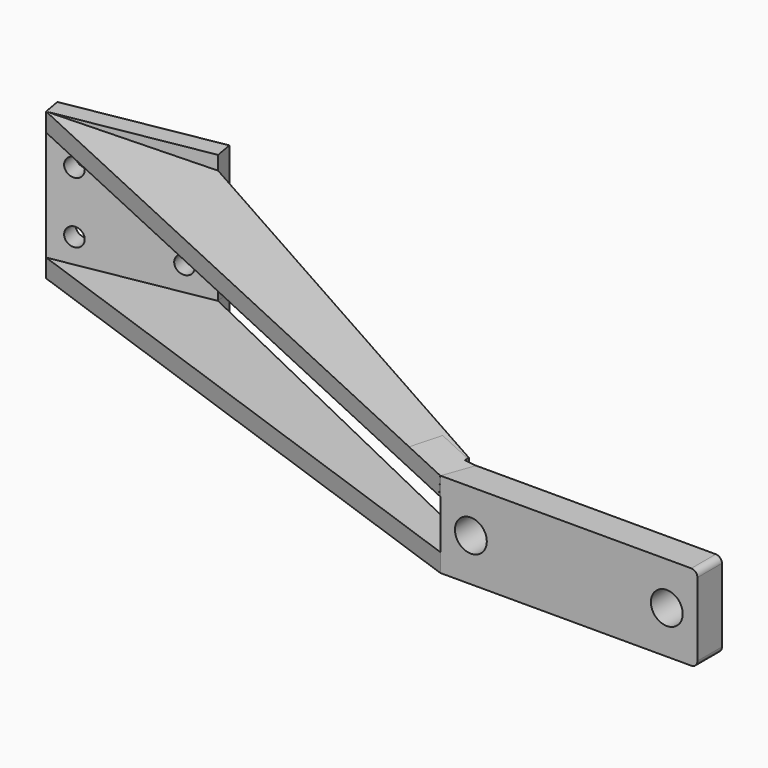
from build123d import *

# Parameters (mm, degrees)
PAD_DEPTH       = 3
SKETCH001_R     = 2.6
POCKET_DEPTH    = 39.421276
SKETCH002_W     = 42
SKETCH002_H     = 14
PAD001_DEPTH    = 5
SKETCH003_W     = 25
SKETCH003_H     = 24
PAD002_DEPTH    = 3
PAD003_DEPTH    = 5.25
PAD004_DEPTH    = 3
SKETCH006_R     = 2.6
POCKET001_DEPTH = 39.421276
SKETCH007_W     = 10.046043
SKETCH007_H     = 6.845245
POCKET002_DEPTH = 24.040304
POCKET003_DEPTH = 24.001
POCKET004_DEPTH = 57.585803
SKETCH009_R     = 1.5
POCKET005_DEPTH = 7.276792
FILLET_R        = 1


with BuildPart() as part:
    # Sketch → Pad (new body)
    with BuildSketch(Plane.XY):
        Polygon((-111.071915, -107.875351), (-111.592859, -104.920928), (-86.972666, -100.579724), (-86.451721, -103.534147), (-21, -135), (21, -135), (21, -140), (-21, -140), align=None)
    extrude(amount=PAD_DEPTH)

    # Sketch001 (on Face7 of Pad) → Pocket (cut, through all)
    with BuildSketch(Plane.XZ.offset(140)):
        with Locations((-11.143028, 7)):
            Circle(SKETCH001_R)
        with Locations((11.143028, 7)):
            Circle(SKETCH001_R)
    extrude(amount=-POCKET_DEPTH, mode=Mode.SUBTRACT)

    # Sketch002 (on Face7 of Pad) → Pad001 (join)
    with BuildSketch(Plane.XZ.offset(140)):
        with Locations((0, 7)):
            Rectangle(SKETCH002_W, SKETCH002_H)
    extrude(amount=-PAD001_DEPTH)

    # Sketch003 (on Face3 of Pad001) → Pad002 (join)
    with BuildSketch(Plane(origin=(14.577599, -82.673672, 0), x_dir=(-0.984808, -0.173648, 0), z_dir=(-0.173648, 0.984808, 0))):
        with Locations((115.62, 12)):
            Rectangle(SKETCH003_W, SKETCH003_H)
    extrude(amount=-PAD002_DEPTH)

    # Sketch004 (on Face14 of Pad002) → Pad003 (join)
    with BuildSketch(Plane(origin=(-46.66687, -130.845768, 0), x_dir=(0.941887, -0.335929, 0), z_dir=(-0.335929, -0.941887, 0))):
        Polygon((27.29, 14), (-68.35, 24), (-68.35, 21), (27.29, 11), align=None)
    extrude(amount=-PAD003_DEPTH)

    # Sketch005 (on Face25 of Pad003) → Pad004 (join)
    with BuildSketch(Plane(origin=(1.641818, -0.585563, 16.671151), x_dir=(0.995191, 0.003438, -0.097888), z_dir=(0.097949, -0.034934, 0.994578))):
        Polygon((-88.519324, -102.708058), (-20.951239, -134.433376), (-22.737431, -139.436564), (-113.251967, -106.97329), (-113.372097, -106.249408), (-88.616976, -102.170205), align=None)
    extrude(amount=-PAD004_DEPTH)

    # Sketch006 (on Face36 of Pad004) → Pocket001 (cut, through all)
    with BuildSketch(Plane.XZ.offset(140)):
        with Locations((-16, 7)):
            Circle(SKETCH006_R)
        with Locations((16, 7)):
            Circle(SKETCH006_R)
    extrude(amount=-POCKET001_DEPTH, mode=Mode.SUBTRACT)

    # Sketch007 (on Face17 of Pocket001) → Pocket002 (cut, through all)
    with BuildSketch(Plane(origin=(0, 0, 0), x_dir=(1, 0, 0), z_dir=(0, 0, -1))):
        with Locations((-15.976978, 131.577378)):
            Rectangle(SKETCH007_W, SKETCH007_H)
    extrude(amount=-POCKET002_DEPTH, mode=Mode.SUBTRACT)

    # Sketch008 (on Face10 of Pocket002) → Pocket003 (cut, through all)
    with BuildSketch(Plane.XY.offset(24)):
        Polygon((-111.59565, -104.921097), (-104.281212, -103.631622), (-103.238319, -101.954292), (-111.59565, -102.358459), align=None)
    extrude(amount=-POCKET003_DEPTH, mode=Mode.SUBTRACT)

    # Sketch010 (on Face4 of Pocket003) → Pocket004 (cut, through all)
    with BuildSketch(Plane(origin=(14.577599, -82.673672, 0), x_dir=(-0.984808, -0.173648, 0), z_dir=(-0.173648, 0.984808, 0))):
        Polygon((127.009121, 24), (128.119995, 24), (128.119995, 20.625757), (128.829539, 20.625757), (128.829539, 24.40741), (126.853241, 24.40741), align=None)
    extrude(amount=-POCKET004_DEPTH, mode=Mode.SUBTRACT)

    # Sketch009 (on Face20 of Pocket003) → Pocket005 (cut, through all)
    with BuildSketch(Plane(origin=(15.098544, -85.628095, 0), x_dir=(0.984808, 0.173648, 0), z_dir=(0.173648, -0.984808, 0))):
        with Locations((-124, 17)):
            Circle(SKETCH009_R)
        with Locations((-108, 15)):
            Circle(SKETCH009_R)
        with Locations((-124, 7)):
            Circle(SKETCH009_R)
        with Locations((-108, 7)):
            Circle(SKETCH009_R)
    extrude(amount=-POCKET005_DEPTH, mode=Mode.SUBTRACT)

    # Fillet
    fillet_edges = [part.edges().sort_by_distance(p)[0] for p in [
        (21, -137.5, 14),
        (21, -137.5, 0),
    ]]
    fillet(fillet_edges, radius=FILLET_R)


solid = part.part
